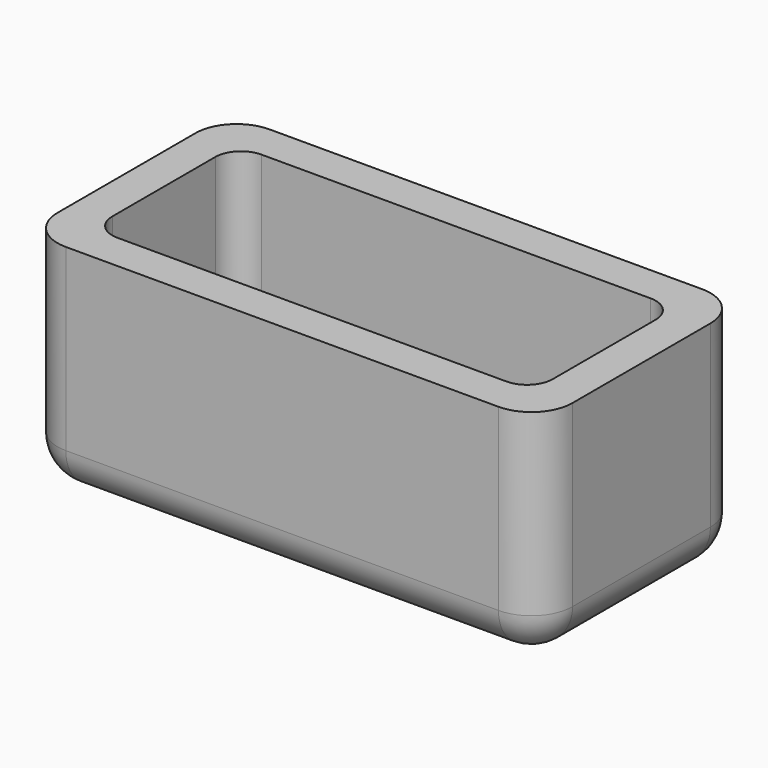
from build123d import *

# Parameters (mm, degrees)
F0_W     = 122.8482164443
F0_H     = 60.7441384345
F1_DEPTH = 52.578
F2_T     = -8.89
F3_R     = 9.8113639175
F4_R     = 6.1321024484


with BuildPart() as f1:
    # F0 (on Top) → F1 (new body)
    with BuildSketch(Plane.XY):
        with Locations((2.0399149507, 0.6799725816)):
            Rectangle(F0_W, F0_H)
    extrude(amount=F1_DEPTH)

    # F2
    f2_openings = [f1.faces().sort_by_distance(p)[0] for p in [
        (2.039915, 0.679973, 52.578),
    ]]
    offset(amount=F2_T, openings=f2_openings)

    # F3
    f3_edges = [f1.edges().sort_by_distance(p)[0] for p in [
        (-59.384193, -29.692097, 26.289),
        (2.039915, -29.692097, 0),
        (2.039915, 31.052042, 0),
        (-59.384193, 0.679973, 0),
        (63.464023, 0.679973, 0),
        (-59.384193, 31.052042, 26.289),
        (63.464023, 31.052042, 26.289),
        (63.464023, -29.692097, 26.289),
    ]]
    fillet(f3_edges, radius=F3_R)

    # F4
    f4_edges = [f1.edges().sort_by_distance(p)[0] for p in [
        (2.039915, 22.162042, 8.89),
        (-50.494193, 0.679973, 8.89),
        (2.039915, -20.802097, 8.89),
        (54.574023, 0.679973, 8.89),
        (-50.494193, -20.802097, 30.734),
        (-50.494193, 22.162042, 30.734),
        (54.574023, -20.802097, 30.734),
        (54.574023, 22.162042, 30.734),
    ]]
    fillet(f4_edges, radius=F4_R)


solid = f1.part
